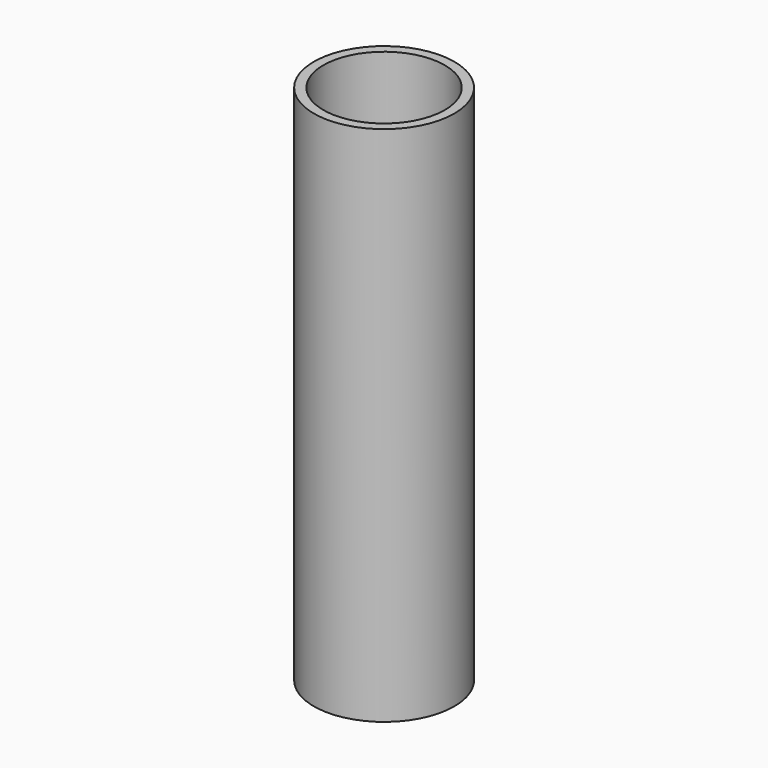
from build123d import *

# Parameters (mm, degrees)
F0_R     = 17.5
F1_DEPTH = 130
F2_R     = 15.125
F3_DEPTH = 130.001


with BuildPart() as f1:
    # F0 (on Top) → F1 (new body)
    with BuildSketch(Plane.XY):
        Circle(F0_R)
    extrude(amount=F1_DEPTH)

    # F2 (on Top) → F3 (cut, through all)
    with BuildSketch(Plane.XY):
        Circle(F2_R)
    extrude(amount=F3_DEPTH, mode=Mode.SUBTRACT)


solid = f1.part
